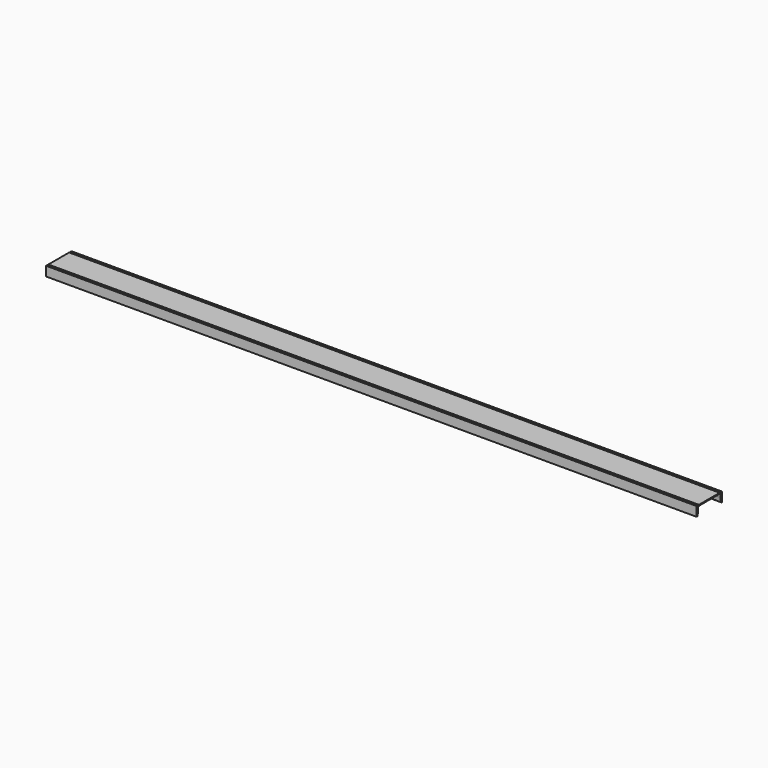
from build123d import *

# Parameters (mm, degrees)
F1_DEPTH = 3657.6


with BuildPart() as f1:
    # F0 (on Right) → F1 (new body)
    with BuildSketch(Plane.YZ):
        with BuildLine():
            Line((88.9, -26.543), (88.9, 0))
            Line((88.9, 0), (79.375, 0))
            Line((79.375, 0), (76.2, -3.175))
            Line((76.2, -3.175), (73.025, 0))
            Line((73.025, 0), (-73.025, 0))
            Line((-73.025, 0), (-76.2, -3.175))
            Line((-76.2, -3.175), (-79.375, 0))
            Line((-79.375, 0), (-88.9, 0))
            Line((-88.9, 0), (-88.9, -53.086))
            Line((-88.9, -53.086), (-87.744515, -53.086))
            ThreePointArc((-87.744515, -53.086), (-83.454517, -51.417711), (-81.418678, -47.289439))
            Line((-81.418678, -47.289439), (-78.255186, -11.130561))
            ThreePointArc((-78.255186, -11.130561), (-76.219348, -7.002289), (-71.92935, -5.334))
            Line((-71.92935, -5.334), (71.92935, -5.334))
            ThreePointArc((71.92935, -5.334), (76.219348, -7.002289), (78.255186, -11.130561))
            Line((78.255186, -11.130561), (79.6036, -26.543))
            Line((79.6036, -26.543), (88.9, -26.543))
        make_face()
        with BuildLine():
            Line((88.9, -53.086), (88.9, -26.543))
            Line((88.9, -26.543), (79.6036, -26.543))
            Line((79.6036, -26.543), (81.418678, -47.289439))
            ThreePointArc((81.418678, -47.289439), (83.454517, -51.417711), (87.744515, -53.086))
            Line((87.744515, -53.086), (88.9, -53.086))
        make_face()
    extrude(amount=F1_DEPTH)


solid = f1.part
